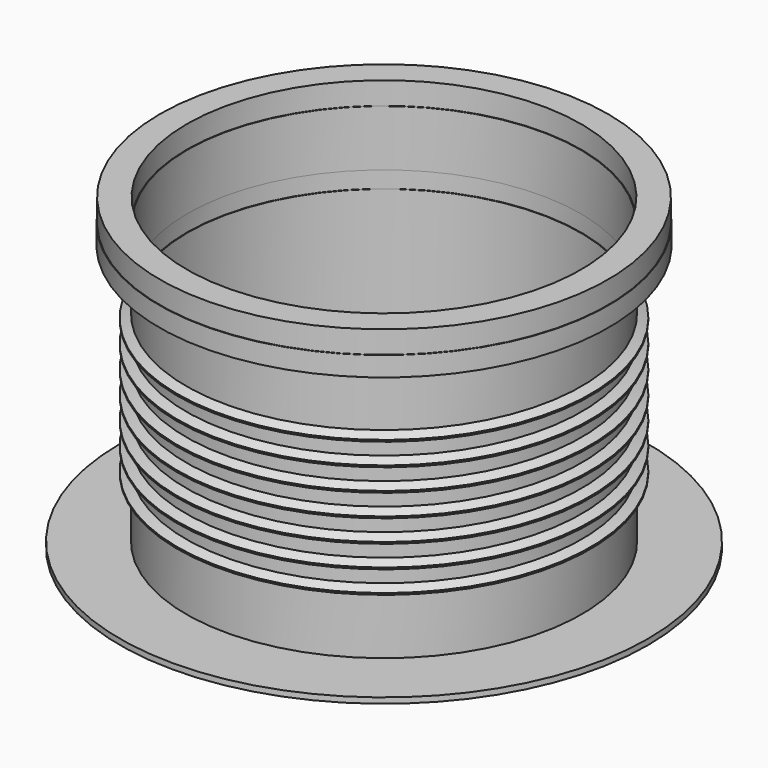
from build123d import *


with BuildPart() as f1:
    # F0 (on Front) → F1 (revolve)
    with BuildSketch(Plane.XZ):
        Polygon((-111.149055, -272.929926), (8.850945, -272.929926), (8.850945, 107.070074), (7.850945, 107.070074), (7.850945, 93.990135), (7.850945, 77.707144), (7.850945, 53.990135), (7.850945, 37.707144), (7.850945, 13.990135), (7.850945, -2.292856), (7.850945, -26.009865), (7.850945, -42.292856), (7.850945, -66.009865), (7.850945, -82.292856), (7.850945, -106.009865), (7.850945, -122.292856), (7.850945, -146.009865), (7.850945, -162.292856), (7.850945, -262.929926), (6.850945, -262.929926), (-111.149055, -262.929926), align=None)
        Polygon((7.850945, 93.990135), (7.850945, 107.070074), (7.850945, 137.070074), (7.850945, 177.070074), (6.850945, 177.070074), (6.850945, 117.070074), (6.850945, 94.627206), (-8.75799, 87.34864), (-8.75799, 84.34864), (6.850945, 77.070074), (6.850945, 54.627206), (-8.75799, 47.34864), (-8.75799, 44.34864), (6.850945, 37.070074), (6.850945, 14.627206), (-8.75799, 7.34864), (-8.75799, 4.34864), (6.850945, -2.929926), (6.850945, -25.372794), (-8.75799, -32.65136), (-8.75799, -35.65136), (6.850945, -42.929926), (6.850945, -65.372794), (-8.75799, -72.65136), (-8.75799, -75.65136), (6.850945, -82.929926), (6.850945, -105.372794), (-8.75799, -112.65136), (-8.75799, -115.65136), (6.850945, -122.929926), (6.850945, -145.372794), (-8.75799, -152.65136), (-8.75799, -155.65136), (6.850945, -162.929926), (6.850945, -262.929926), (7.850945, -262.929926), (7.850945, -162.292856), (-7.75799, -155.01429), (-7.75799, -153.28843), (7.850945, -146.009865), (7.850945, -122.292856), (-7.75799, -115.01429), (-7.75799, -113.28843), (7.850945, -106.009865), (7.850945, -82.292856), (-7.75799, -75.01429), (-7.75799, -73.28843), (7.850945, -66.009865), (7.850945, -42.292856), (-7.75799, -35.01429), (-7.75799, -33.28843), (7.850945, -26.009865), (7.850945, -2.292856), (-7.75799, 4.98571), (-7.75799, 6.71157), (7.850945, 13.990135), (7.850945, 37.707144), (-7.75799, 44.98571), (-7.75799, 46.71157), (7.850945, 53.990135), (7.850945, 77.707144), (-7.75799, 84.98571), (-7.75799, 86.71157), align=None)
        Polygon((7.850945, 177.070074), (7.850945, 137.070074), (8.850945, 137.070074), (8.850945, 237.070074), (7.850945, 237.070074), (7.850945, 277.070074), (-40.149055, 277.070074), (-40.149055, 237.070074), (-41.149055, 237.070074), (-41.149055, 202.070074), (7.850945, 202.070074), align=None)
        Polygon((7.850945, 77.707144), (7.850945, 93.990135), (-7.75799, 86.71157), (-7.75799, 84.98571), align=None)
        Polygon((7.850945, 37.707144), (7.850945, 53.990135), (-7.75799, 46.71157), (-7.75799, 44.98571), align=None)
        Polygon((7.850945, -2.292856), (7.850945, 13.990135), (-7.75799, 6.71157), (-7.75799, 4.98571), align=None)
        Polygon((7.850945, -42.292856), (7.850945, -26.009865), (-7.75799, -33.28843), (-7.75799, -35.01429), align=None)
        Polygon((-7.75799, -75.01429), (7.850945, -82.292856), (7.850945, -66.009865), (-7.75799, -73.28843), align=None)
        Polygon((-7.75799, -115.01429), (7.850945, -122.292856), (7.850945, -106.009865), (-7.75799, -113.28843), align=None)
        Polygon((-7.75799, -155.01429), (7.850945, -162.292856), (7.850945, -146.009865), (-7.75799, -153.28843), align=None)
    revolve(axis=Axis((358.850945, 0, -351.682112), (0, 0, -1)))


solid = f1.part
